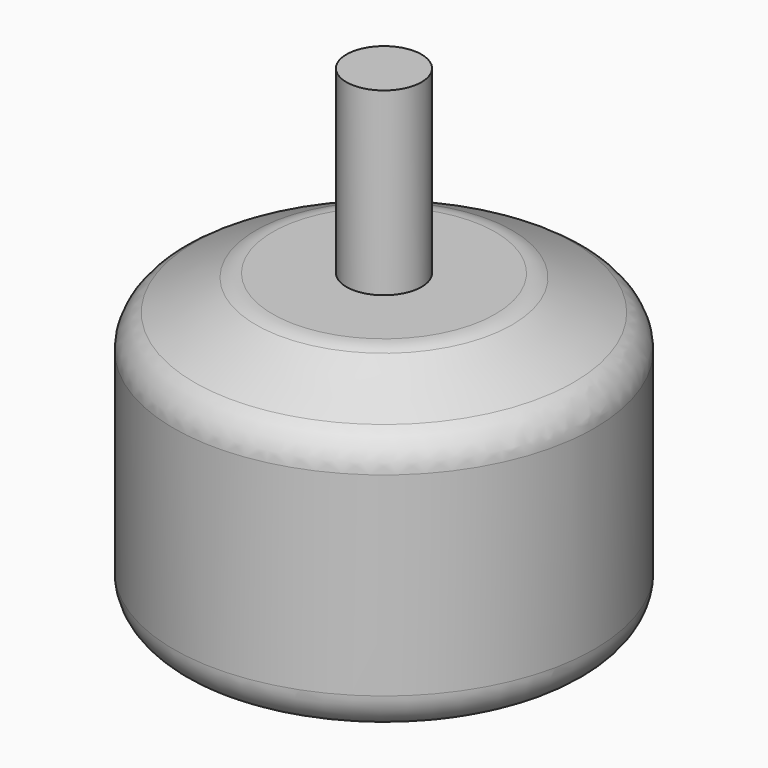
from build123d import *

# Parameters (mm, degrees)
F0_R     = 14
F0_R_2   = 1.6
F0_R_3   = 4
F0_R_4   = 2.5
F1_DEPTH = 20
F2_DEPTH = 32
F3_DEPTH = 2
F4_START = 5
F4_DEPTH = 15
F5_SIZE2 = 3
F5_SIZE  = 6
F6_R     = 2.5


with BuildPart() as f1:
    # F0 (on Top) → F1 (new body)
    with BuildSketch(Plane.XY):
        Circle(F0_R)
        with Locations((0, -8)):
            Circle(F0_R_2, mode=Mode.SUBTRACT)
        with Locations((-9.5, 0)):
            Circle(F0_R_2, mode=Mode.SUBTRACT)
        Circle(F0_R_3, mode=Mode.SUBTRACT)
        with Locations((9.5, 0)):
            Circle(F0_R_2, mode=Mode.SUBTRACT)
        with Locations((0, 8)):
            Circle(F0_R_2, mode=Mode.SUBTRACT)
        Circle(F0_R_3)
        Circle(F0_R_4, mode=Mode.SUBTRACT)
        Circle(F0_R_4)
    extrude(amount=F1_DEPTH)

    # F0 (on Top) → F2 (join)
    with BuildSketch(Plane.XY):
        Circle(F0_R_4)
    extrude(amount=F2_DEPTH)

    # F0 (on Top) → F3 (join)
    with BuildSketch(Plane.XY):
        Circle(F0_R_3)
        Circle(F0_R_4, mode=Mode.SUBTRACT)
        Circle(F0_R_4)
    extrude(amount=-F3_DEPTH)

    # F0 (on Top) → F4 (join)
    with BuildSketch(Plane.XY.offset(F4_START)):
        with Locations((0, 8)):
            Circle(F0_R_2)
        with Locations((9.5, 0)):
            Circle(F0_R_2)
        with Locations((0, -8)):
            Circle(F0_R_2)
        with Locations((-9.5, 0)):
            Circle(F0_R_2)
    extrude(amount=F4_DEPTH)

    # F5
    f5_edges = [f1.edges().sort_by_distance(p)[0] for p in [
        (-14, 0, 20),
    ]]
    f5_side = f1.faces().sort_by_distance((-13.60402, 0, 20))[0]
    chamfer(f5_edges, length=F5_SIZE, length2=F5_SIZE2, reference=f5_side)

    # F6
    f6_edges = [f1.edges().sort_by_distance(p)[0] for p in [
        (11, 0, 18.5),
        (-8, 0, 20),
        (-14, 0, 17),
        (14, 0, 8.5),
        (-14, 0, 0),
    ]]
    fillet(f6_edges, radius=F6_R)


solid = f1.part
